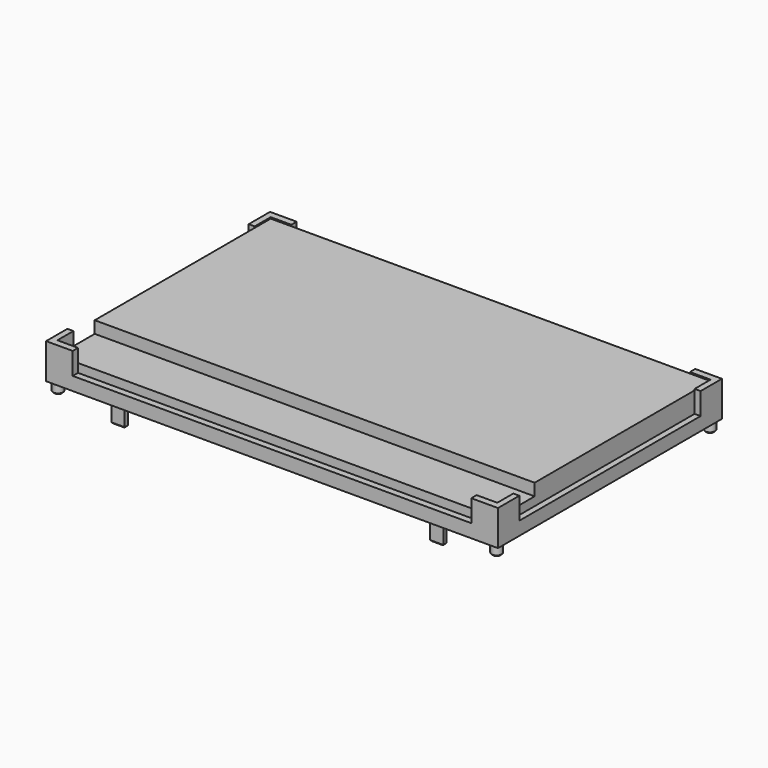
from build123d import *

# Parameters (mm, degrees)
F0_W     = 67.8
F0_H     = 42
F0_R     = 0.75
F0_W_2   = 2
F0_H_2   = 0.6
F1_DEPTH = 5.3
F2_DEPTH = 1.5
F3_DEPTH = 3.1
F5_DEPTH = 3.3
F7_DEPTH = 1.3
F9_DEPTH = 1.8
F10_SIZE = 0.2


with BuildPart() as f1:
    # F0 (on Top) → F1 (new body)
    with BuildSketch(Plane.XY):
        Rectangle(F0_W, F0_H)
        with Locations((-32.9, -20)):
            Circle(F0_R, mode=Mode.SUBTRACT)
        with Locations((-23.9, -19.7)):
            Rectangle(F0_W_2, F0_H_2, mode=Mode.SUBTRACT)
        with Locations((23.9, -19.7)):
            Rectangle(F0_W_2, F0_H_2, mode=Mode.SUBTRACT)
        with Locations((32.9, -20)):
            Circle(F0_R, mode=Mode.SUBTRACT)
        with Locations((-32.9, 20)):
            Circle(F0_R, mode=Mode.SUBTRACT)
        with Locations((32.9, 20)):
            Circle(F0_R, mode=Mode.SUBTRACT)
        with Locations((32.9, 20)):
            Circle(F0_R)
        with Locations((32.9, -20)):
            Circle(F0_R)
        with Locations((-32.9, 20)):
            Circle(F0_R)
        with Locations((-32.9, -20)):
            Circle(F0_R)
        with Locations((-23.9, -19.7)):
            Rectangle(F0_W_2, F0_H_2)
        with Locations((23.9, -19.7)):
            Rectangle(F0_W_2, F0_H_2)
    extrude(amount=F1_DEPTH)

    # F0 (on Top) → F2 (join)
    with BuildSketch(Plane.XY):
        with Locations((-32.9, -20)):
            Circle(F0_R)
        with Locations((32.9, -20)):
            Circle(F0_R)
        with Locations((32.9, 20)):
            Circle(F0_R)
        with Locations((-32.9, 20)):
            Circle(F0_R)
    extrude(amount=-F2_DEPTH)

    # F0 (on Top) → F3 (join)
    with BuildSketch(Plane.XY):
        with Locations((-23.9, -19.7)):
            Rectangle(F0_W_2, F0_H_2)
        with Locations((23.9, -19.7)):
            Rectangle(F0_W_2, F0_H_2)
    extrude(amount=-F3_DEPTH)

    # F4 (on face) → F5 (cut)
    with BuildSketch(Plane.XY.offset(5.3)):
        Polygon((33, 17), (33, 20), (29.9, 20), (29.9, 21), (-29.9, 21), (-29.9, 20), (-33, 20), (-33, 17), (-33.9, 17), (-33.9, -17), (-33, -17), (-33, -20), (-29.9, -20), (-29.9, -21), (29.9, -21), (29.9, -20), (33, -20), (33, -17), (33.9, -17), (33.9, 17), align=None)
    extrude(amount=-F5_DEPTH, mode=Mode.SUBTRACT)

    # F6 (on face) → F7 (join)
    with BuildSketch(Plane.XY.offset(2)):
        Polygon((33, 17), (33, 20), (29.9, 20), (-29.9, 20), (-33, 20), (-33, 17), (-33, -17), (-33, -20), (-29.9, -20), (29.9, -20), (33, -20), (33, -17), align=None)
    extrude(amount=F7_DEPTH)

    # F8 (on face) → F9 (join)
    with BuildSketch(Plane.XY.offset(3.3)):
        Polygon((-29.9, 20), (-33, 20), (-33, 17), (-33, -13), (33, -13), (33, 17), (33, 20), (29.9, 20), align=None)
    extrude(amount=F9_DEPTH)

    # F10
    f10_edges = [f1.edges().sort_by_distance(p)[0] for p in [
        (-33.65, -20, -1.5),
        (-23.9, -20, -3.1),
        (-22.9, -19.7, -3.1),
        (-23.9, -19.4, -3.1),
        (-24.9, -19.7, -3.1),
        (23.9, -19.4, -3.1),
        (22.9, -19.7, -3.1),
        (23.9, -20, -3.1),
        (24.9, -19.7, -3.1),
        (32.15, -20, -1.5),
        (32.15, 20, -1.5),
        (-33.65, 20, -1.5),
    ]]
    chamfer(f10_edges, length=F10_SIZE)


solid = f1.part
